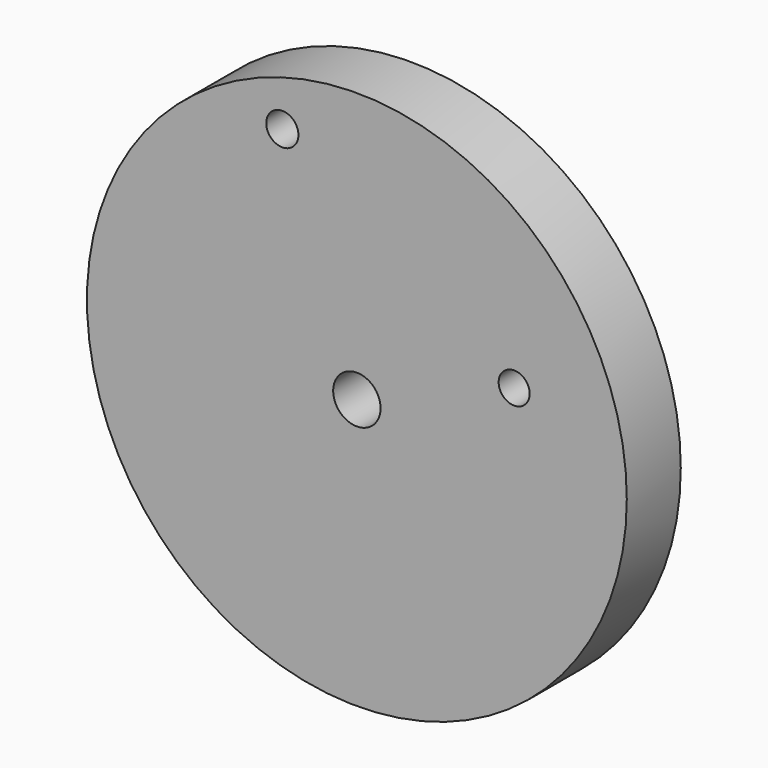
from build123d import *

# Parameters (mm, degrees)
F0_R     = 25.4
F0_R_2   = 2.230106
F0_R_3   = 1.513771
F0_R_4   = 1.460093
F1_DEPTH = 6.35


with BuildPart() as f1:
    # F0 (on Front) → F1 (new body)
    with BuildSketch(Plane.XZ):
        with Locations((-37.051782, 34.201048)):
            Circle(F0_R)
        with Locations((-37.051782, 34.201048)):
            Circle(F0_R_2, mode=Mode.SUBTRACT)
        with Locations((-44.067994, 54.326009)):
            Circle(F0_R_3, mode=Mode.SUBTRACT)
        with Locations((-22.252154, 39.971374)):
            Circle(F0_R_4, mode=Mode.SUBTRACT)
    extrude(amount=F1_DEPTH)


solid = f1.part
